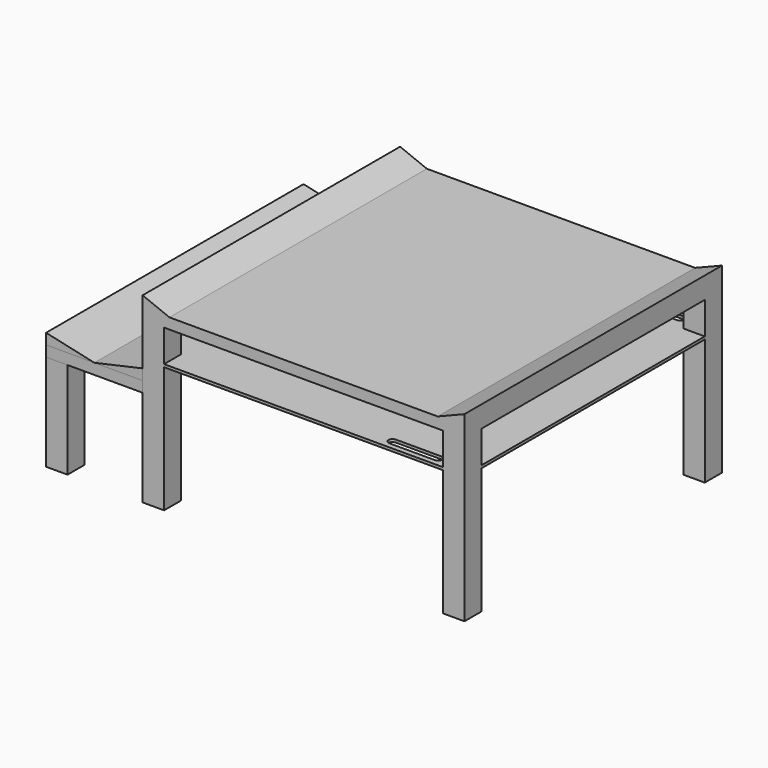
from build123d import *

# Parameters (mm, degrees)
F0_W      = 1524
F0_H      = 1524
F1_DEPTH  = 50.8
F2_W      = 101.6
F2_H      = 101.6
F3_DEPTH  = 762
F4_W      = 1524
F4_H      = 12.7
F5_DEPTH  = 1524
F7_DEPTH  = 25.4
F9_DEPTH  = 1524
F11_W     = 101.6
F11_H     = 457.2
F12_DEPTH = 101.6
F13_W     = 1524
F13_H     = 50.8
F14_DEPTH = 457.2
F16_DEPTH = 1524


with BuildPart() as f1:
    # F0 (on Top) → F1 (new body)
    with BuildSketch(Plane.XY):
        with Locations((762, 762)):
            Rectangle(F0_W, F0_H)
    extrude(amount=F1_DEPTH)

    # F2 (on face) → F3 (join)
    with BuildSketch(Plane(origin=(0, 0, 0), x_dir=(1, 0, 0), z_dir=(0, 0, -1))):
        with Locations((50.8, -50.8)):
            Rectangle(F2_W, F2_H)
        with Locations((1473.2, -50.8)):
            Rectangle(F2_W, F2_H)
        with Locations((1473.2, -1473.2)):
            Rectangle(F2_W, F2_H)
        with Locations((50.8, -1473.2)):
            Rectangle(F2_W, F2_H)
    extrude(amount=F3_DEPTH)

    # F4 (on Front) → F5 (join)
    with BuildSketch(Plane.XZ):
        with Locations((762, -158.75)):
            Rectangle(F4_W, F4_H)
    extrude(amount=-F5_DEPTH)

    # F6 (on face) → F7 (cut)
    with BuildSketch(Plane(origin=(0, 0, -165.1), x_dir=(1, 0, 0), z_dir=(0, 0, -1))):
        with BuildLine():
            Line((1363.9646789551, -25.5996988535), (1148.0646789551, -25.5996988535))
            ThreePointArc((1148.0646789551, -25.5996988535), (1134.5942947735, -31.1793146719), (1129.0146789551, -44.6496988535))
            ThreePointArc((1129.0146789551, -44.6496988535), (1134.5942947735, -58.1200830351), (1148.0646789551, -63.6996988535))
            Line((1148.0646789551, -63.6996988535), (1363.9646789551, -63.6996988535))
            ThreePointArc((1363.9646789551, -63.6996988535), (1377.4350631367, -58.1200830351), (1383.0146789551, -44.6496988535))
            ThreePointArc((1383.0146789551, -44.6496988535), (1377.4350631367, -31.1793146719), (1363.9646789551, -25.5996988535))
        make_face()
        with BuildLine():
            Line((1363.9646789551, -1460.3003011465), (1148.0646789551, -1460.3003011465))
            ThreePointArc((1148.0646789551, -1460.3003011465), (1134.5942947735, -1465.8799169649), (1129.0146789551, -1479.3503011465))
            ThreePointArc((1129.0146789551, -1479.3503011465), (1134.5942947735, -1492.8206853281), (1148.0646789551, -1498.4003011465))
            Line((1148.0646789551, -1498.4003011465), (1363.9646789551, -1498.4003011465))
            ThreePointArc((1363.9646789551, -1498.4003011465), (1377.4350631367, -1492.8206853281), (1383.0146789551, -1479.3503011465))
            ThreePointArc((1383.0146789551, -1479.3503011465), (1377.4350631367, -1465.8799169649), (1363.9646789551, -1460.3003011465))
        make_face()
    extrude(amount=-F7_DEPTH, mode=Mode.SUBTRACT)

    # F8 (on Front) → F9 (join)
    with BuildSketch(Plane.XZ):
        Polygon((0, 101.6), (0, 50.8), (127, 50.8), align=None)
        Polygon((1524, 101.6), (1397, 50.8), (1524, 50.8), align=None)
    extrude(amount=-F9_DEPTH)


with BuildPart() as f12:
    # F11 (on offset) → F12 (new body)
    with BuildSketch(Plane(origin=(-457.2, 0, 0), x_dir=(0, -1, 0), z_dir=(-1, 0, 0))):
        with Locations((-50.8, -533.4)):
            Rectangle(F11_W, F11_H)
    extrude(amount=-F12_DEPTH)


with BuildPart() as f12b:
    # F11 (on offset) → F12, piece 2 (new body)
    with BuildSketch(Plane(origin=(-457.2, 0, 0), x_dir=(0, -1, 0), z_dir=(-1, 0, 0))):
        with Locations((-1473.2, -533.4)):
            Rectangle(F11_W, F11_H)
    extrude(amount=-F12_DEPTH)


with BuildPart() as f14:
    # F13 (on offset) → F14 (new body)
    with BuildSketch(Plane(origin=(-457.2, 0, 0), x_dir=(0, -1, 0), z_dir=(-1, 0, 0))):
        with Locations((-762, -279.4)):
            Rectangle(F13_W, F13_H)
    extrude(amount=-F14_DEPTH)


with BuildPart() as f16:
    # F15 (on face) → F16 (new body)
    with BuildSketch(Plane.XZ):
        Polygon((0, -203.2), (-228.6, -254), (0, -254), align=None)
    extrude(amount=-F16_DEPTH)


with BuildPart() as f16b:
    # F15 (on face) → F16, piece 2 (new body)
    with BuildSketch(Plane.XZ):
        Polygon((-457.2, -203.2), (-457.2, -254), (-228.6, -254), align=None)
    extrude(amount=-F16_DEPTH)


solid = Compound([f1.part, f12.part, f12b.part, f14.part, f16.part, f16b.part])
